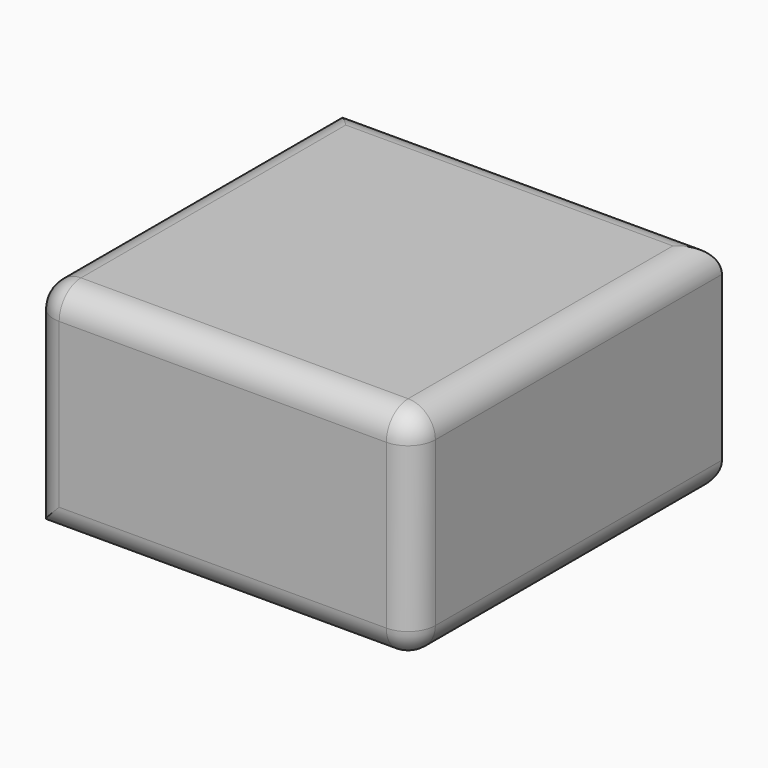
from build123d import *

# Parameters (mm, degrees)
F0_W     = 70
F0_H     = 40
F1_DEPTH = 35.35
F2_R     = 5


with BuildPart() as f1:
    # F0 (on Front) → F1 (new body, symmetric)
    with BuildSketch(Plane.XZ):
        with Locations((-35, 20)):
            Rectangle(F0_W, F0_H)
    extrude(amount=F1_DEPTH, both=True)

    # F2
    f2_edges = [f1.edges().sort_by_distance(p)[0] for p in [
        (-35, -35.35, 40),
        (0, 0, 40),
        (0, -35.35, 20),
        (-70, -35.35, 20),
        (-35, -35.35, 0),
        (-70, 0, 40),
        (-35, 35.35, 40),
        (0, 0, 0),
        (-35, 35.35, 0),
    ]]
    fillet(f2_edges, radius=F2_R)


solid = f1.part
